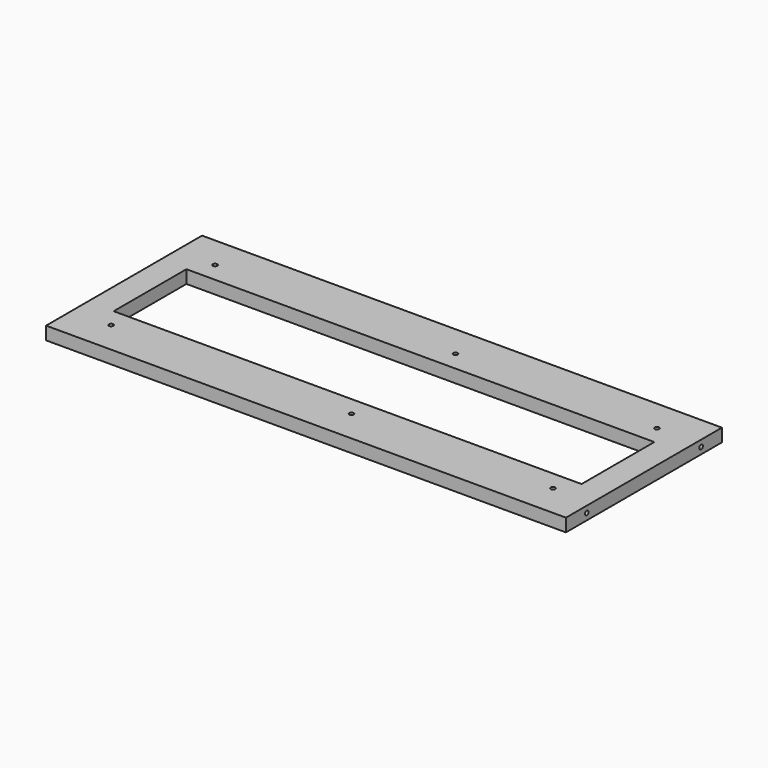
from build123d import *

# Parameters (mm, degrees)
CYLINDER013_R           = 1.7
CYLINDER013_DEPTH       = 20
CYLINDER013_PITCH_ANGLE = 90
CYLINDER015_R           = 1.7
CYLINDER015_DEPTH       = 20
CYLINDER015_PITCH_ANGLE = 90
CYLINDER016_R           = 1.7
CYLINDER016_DEPTH       = 20
CYLINDER016_PITCH_ANGLE = 90
CYLINDER017_R           = 1.7
CYLINDER017_DEPTH       = 20
CYLINDER017_PITCH_ANGLE = 90
SKETCH013_W             = 400
SKETCH013_H             = 150
SKETCH013_R             = 1.7
SKETCH013_W_2           = 360
SKETCH013_H_2           = 70
PAD013_DEPTH            = 10


with BuildPart() as cylinder013:
    # Cylinder013 → Cylinder013 (new body)
    with BuildSketch(Plane.XY):
        Circle(CYLINDER013_R)
    extrude(amount=CYLINDER013_DEPTH)


with BuildPart() as cylinder013_1:
    # Cylinder013 pitch: moved
    add(cylinder013.part.rotate(Axis((0, 0, 0), (0, 1, 0)), CYLINDER013_PITCH_ANGLE))


with BuildPart() as cylinder013_2:
    # Cylinder013 placement: moved
    add(cylinder013_1.part.moved(Location((195, -65, 65))))


with BuildPart() as cylinder015:
    # Cylinder015 → Cylinder015 (new body)
    with BuildSketch(Plane.XY):
        Circle(CYLINDER015_R)
    extrude(amount=CYLINDER015_DEPTH)


with BuildPart() as cylinder015_1:
    # Cylinder015 pitch: moved
    add(cylinder015.part.rotate(Axis((0, 0, 0), (0, 1, 0)), CYLINDER015_PITCH_ANGLE))


with BuildPart() as cylinder015_2:
    # Cylinder015 placement: moved
    add(cylinder015_1.part.moved(Location((-215, -65, 65))))


with BuildPart() as cylinder016:
    # Cylinder016 → Cylinder016 (new body)
    with BuildSketch(Plane.XY):
        Circle(CYLINDER016_R)
    extrude(amount=CYLINDER016_DEPTH)


with BuildPart() as cylinder016_1:
    # Cylinder016 pitch: moved
    add(cylinder016.part.rotate(Axis((0, 0, 0), (0, 1, 0)), CYLINDER016_PITCH_ANGLE))


with BuildPart() as cylinder016_2:
    # Cylinder016 placement: moved
    add(cylinder016_1.part.moved(Location((-215, 45, 65))))


with BuildPart() as fusion004:
    # Cylinder017 → Cylinder017 (new body)
    with BuildSketch(Plane.XY):
        Circle(CYLINDER017_R)
    extrude(amount=CYLINDER017_DEPTH)


with BuildPart() as fusion004_1:
    # Cylinder017 pitch: moved
    add(fusion004.part.rotate(Axis((0, 0, 0), (0, 1, 0)), CYLINDER017_PITCH_ANGLE))


with BuildPart() as fusion004_2:
    # Cylinder017 placement: moved
    add(fusion004_1.part.moved(Location((195, 45, 65))))

    # Fusion004: union Cylinder013, Cylinder015, Cylinder016
    add(cylinder013_2.part)
    add(cylinder015_2.part)
    add(cylinder016_2.part)


with BuildPart() as cut016:
    # Sketch013 → Pad013 (new body)
    with BuildSketch(Plane(origin=(0, -10, 60), x_dir=(1, 0, 0), z_dir=(0, 0, 1))):
        Rectangle(SKETCH013_W, SKETCH013_H)
        with Locations((-170, 50)):
            Circle(SKETCH013_R, mode=Mode.SUBTRACT)
        with Locations((-170, -50)):
            Circle(SKETCH013_R, mode=Mode.SUBTRACT)
        with Locations((15, -50)):
            Circle(SKETCH013_R, mode=Mode.SUBTRACT)
        with Locations((170, -50)):
            Circle(SKETCH013_R, mode=Mode.SUBTRACT)
        with Locations((170, 50)):
            Circle(SKETCH013_R, mode=Mode.SUBTRACT)
        with Locations((15, 50)):
            Circle(SKETCH013_R, mode=Mode.SUBTRACT)
        Rectangle(SKETCH013_W_2, SKETCH013_H_2, mode=Mode.SUBTRACT)
    extrude(amount=PAD013_DEPTH)

    # Cut016: cut Fusion004
    add(fusion004_2.part, mode=Mode.SUBTRACT)


solid = cut016.part
